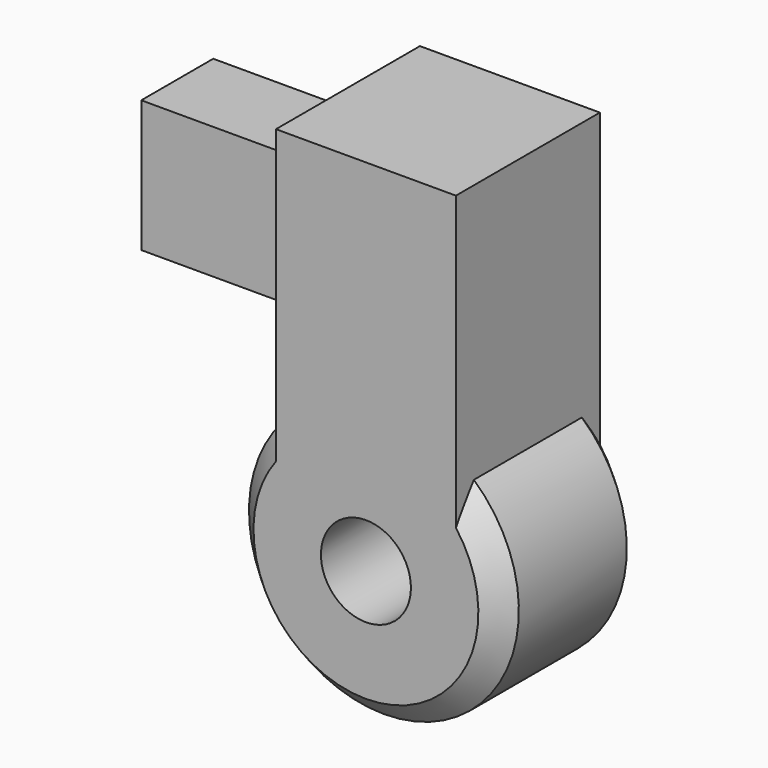
from build123d import *

# Parameters (mm, degrees)
F2_R     = 4.7625
F2_R_2   = 1.5875
F5_DEPTH = 3.175
F6_DEPTH = 3.175
F4_W     = 7.239
F4_H     = 4.654424265
F7_DEPTH = 1.5875
F8_SIZE  = 0.79375


with BuildPart() as f5:
    # F2 (on offset) → F5 (new body, symmetric)
    with BuildSketch(Plane.XZ.offset(25.4)):
        Circle(F2_R)
        Circle(F2_R_2, mode=Mode.SUBTRACT)
    extrude(amount=F5_DEPTH, both=True)

    # F3 (on offset) → F6 (join, symmetric)
    with BuildSketch(Plane.XZ.offset(25.4)):
        with BuildLine():
            Line((3.175, 0), (3.175, 12.7))
            Line((3.175, 12.7), (-3.175, 12.7))
            Line((-3.175, 12.7), (-3.175, 0))
            Line((-3.175, 0), (-1.5875, 0))
            ThreePointArc((-1.5875, 0), (0, 1.5875), (1.5875, 0))
            Line((1.5875, 0), (3.175, 0))
        make_face()
    extrude(amount=F6_DEPTH, both=True)

    # F4 (on offset) → F7 (join, symmetric)
    with BuildSketch(Plane.XZ.offset(25.4)):
        with Locations((-5.5793230124, 8.6660822853)):
            Rectangle(F4_W, F4_H)
    extrude(amount=F7_DEPTH, both=True)

    # F8
    f8_edges = [f5.edges().sort_by_distance(p)[0] for p in [
        (0, -28.575, -4.7625),
        (0, -22.225, -4.7625),
    ]]
    chamfer(f8_edges, length=F8_SIZE)


solid = f5.part
